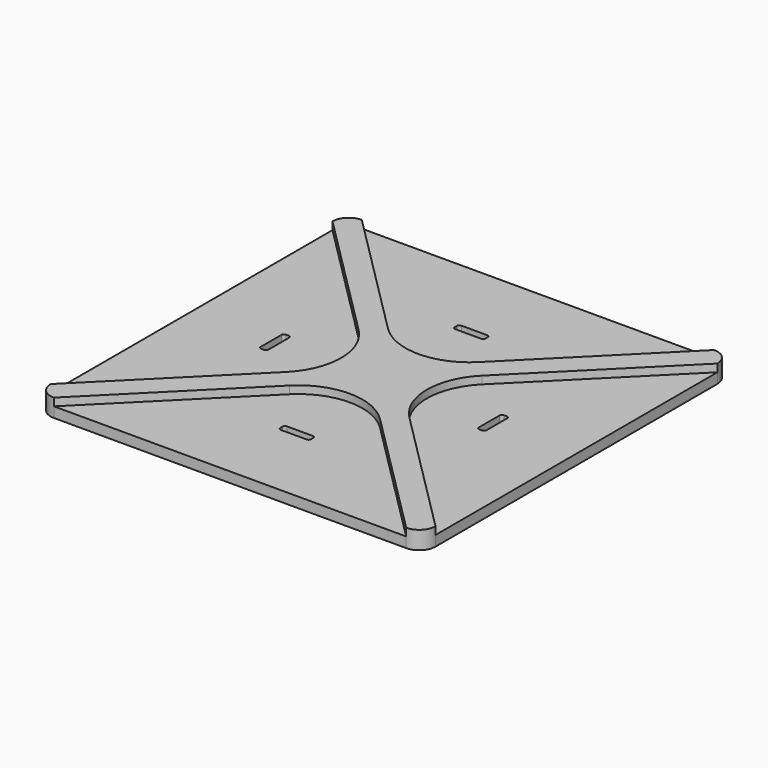
from build123d import *

# Parameters (mm, degrees)
F1_DEPTH = 7
F2_DEPTH = 4


with BuildPart() as f1:
    # F0 (on Top) → F1 (new body)
    with BuildSketch(Plane.XY):
        with BuildLine():
            ThreePointArc((75, 68.65), (73.140128, 73.140128), (68.65, 75))
            Line((68.65, 75), (17.67767, 24.02767))
            ThreePointArc((17.67767, 24.02767), (0, 16.705339), (-17.67767, 24.02767))
            Line((-17.67767, 24.02767), (-68.65, 75))
            ThreePointArc((-68.65, 75), (-73.140128, 73.140128), (-75, 68.65))
            Line((-75, 68.65), (-24.02767, 17.67767))
            ThreePointArc((-24.02767, 17.67767), (-16.705339, 0), (-24.02767, -17.67767))
            Line((-24.02767, -17.67767), (-75, -68.65))
            ThreePointArc((-75, -68.65), (-73.140128, -73.140128), (-68.65, -75))
            Line((-68.65, -75), (-17.67767, -24.02767))
            ThreePointArc((-17.67767, -24.02767), (0, -16.705339), (17.67767, -24.02767))
            Line((17.67767, -24.02767), (68.65, -75))
            ThreePointArc((68.65, -75), (73.140128, -73.140128), (75, -68.65))
            Line((75, -68.65), (24.02767, -17.67767))
            ThreePointArc((24.02767, -17.67767), (16.705339, 0), (24.02767, 17.67767))
            Line((24.02767, 17.67767), (75, 68.65))
        make_face()
    extrude(amount=F1_DEPTH)

    # F0 (on Top) → F2 (join)
    with BuildSketch(Plane.XY):
        with BuildLine():
            Line((17.67767, 24.02767), (68.65, 75))
            Line((68.65, 75), (-68.65, 75))
            Line((-68.65, 75), (-17.67767, 24.02767))
            ThreePointArc((-17.67767, 24.02767), (0, 16.705339), (17.67767, 24.02767))
        make_face()
        with BuildLine():
            Line((-5.022477, 44), (5.022477, 44))
            ThreePointArc((5.022477, 44), (5.71369, 43.71369), (6, 43.022477))
            Line((6, 43.022477), (6, 41.977523))
            ThreePointArc((6, 41.977523), (5.71369, 41.28631), (5.022477, 41))
            Line((5.022477, 41), (-5.022477, 41))
            ThreePointArc((-5.022477, 41), (-5.71369, 41.28631), (-6, 41.977523))
            Line((-6, 41.977523), (-6, 43.022477))
            ThreePointArc((-6, 43.022477), (-5.71369, 43.71369), (-5.022477, 44))
        make_face(mode=Mode.SUBTRACT)
        with BuildLine():
            ThreePointArc((75, 68.65), (73.140128, 73.140128), (68.65, 75))
            Line((68.65, 75), (17.67767, 24.02767))
            ThreePointArc((17.67767, 24.02767), (0, 16.705339), (-17.67767, 24.02767))
            Line((-17.67767, 24.02767), (-68.65, 75))
            ThreePointArc((-68.65, 75), (-73.140128, 73.140128), (-75, 68.65))
            Line((-75, 68.65), (-24.02767, 17.67767))
            ThreePointArc((-24.02767, 17.67767), (-16.705339, 0), (-24.02767, -17.67767))
            Line((-24.02767, -17.67767), (-75, -68.65))
            ThreePointArc((-75, -68.65), (-73.140128, -73.140128), (-68.65, -75))
            Line((-68.65, -75), (-17.67767, -24.02767))
            ThreePointArc((-17.67767, -24.02767), (0, -16.705339), (17.67767, -24.02767))
            Line((17.67767, -24.02767), (68.65, -75))
            ThreePointArc((68.65, -75), (73.140128, -73.140128), (75, -68.65))
            Line((75, -68.65), (24.02767, -17.67767))
            ThreePointArc((24.02767, -17.67767), (16.705339, 0), (24.02767, 17.67767))
            Line((24.02767, 17.67767), (75, 68.65))
        make_face()
        with BuildLine():
            Line((75, -68.65), (75, 68.65))
            Line((75, 68.65), (24.02767, 17.67767))
            ThreePointArc((24.02767, 17.67767), (16.705339, 0), (24.02767, -17.67767))
            Line((24.02767, -17.67767), (75, -68.65))
        make_face()
        with BuildLine():
            ThreePointArc((43.022477, 6), (43.71369, 5.71369), (44, 5.022477))
            Line((44, 5.022477), (44, -5.022477))
            ThreePointArc((44, -5.022477), (43.71369, -5.71369), (43.022477, -6))
            Line((43.022477, -6), (41.977523, -6))
            ThreePointArc((41.977523, -6), (41.28631, -5.71369), (41, -5.022477))
            Line((41, -5.022477), (41, 5.022477))
            ThreePointArc((41, 5.022477), (41.28631, 5.71369), (41.977523, 6))
            Line((41.977523, 6), (43.022477, 6))
        make_face(mode=Mode.SUBTRACT)
        with BuildLine():
            Line((-24.02767, 17.67767), (-75, 68.65))
            Line((-75, 68.65), (-75, -68.65))
            Line((-75, -68.65), (-24.02767, -17.67767))
            ThreePointArc((-24.02767, -17.67767), (-16.705339, 0), (-24.02767, 17.67767))
        make_face()
        with BuildLine():
            Line((-41, 5.022477), (-41, -5.022477))
            ThreePointArc((-41, -5.022477), (-41.28631, -5.71369), (-41.977523, -6))
            Line((-41.977523, -6), (-43.022477, -6))
            ThreePointArc((-43.022477, -6), (-43.71369, -5.71369), (-44, -5.022477))
            Line((-44, -5.022477), (-44, 5.022477))
            ThreePointArc((-44, 5.022477), (-43.71369, 5.71369), (-43.022477, 6))
            Line((-43.022477, 6), (-41.977523, 6))
            ThreePointArc((-41.977523, 6), (-41.28631, 5.71369), (-41, 5.022477))
        make_face(mode=Mode.SUBTRACT)
        with BuildLine():
            Line((-68.65, -75), (68.65, -75))
            Line((68.65, -75), (17.67767, -24.02767))
            ThreePointArc((17.67767, -24.02767), (0, -16.705339), (-17.67767, -24.02767))
            Line((-17.67767, -24.02767), (-68.65, -75))
        make_face()
        with BuildLine():
            ThreePointArc((6, -43.022477), (5.71369, -43.71369), (5.022477, -44))
            Line((5.022477, -44), (-5.022477, -44))
            ThreePointArc((-5.022477, -44), (-5.71369, -43.71369), (-6, -43.022477))
            Line((-6, -43.022477), (-6, -41.977523))
            ThreePointArc((-6, -41.977523), (-5.71369, -41.28631), (-5.022477, -41))
            Line((-5.022477, -41), (5.022477, -41))
            ThreePointArc((5.022477, -41), (5.71369, -41.28631), (6, -41.977523))
            Line((6, -41.977523), (6, -43.022477))
        make_face(mode=Mode.SUBTRACT)
    extrude(amount=F2_DEPTH)


solid = f1.part
